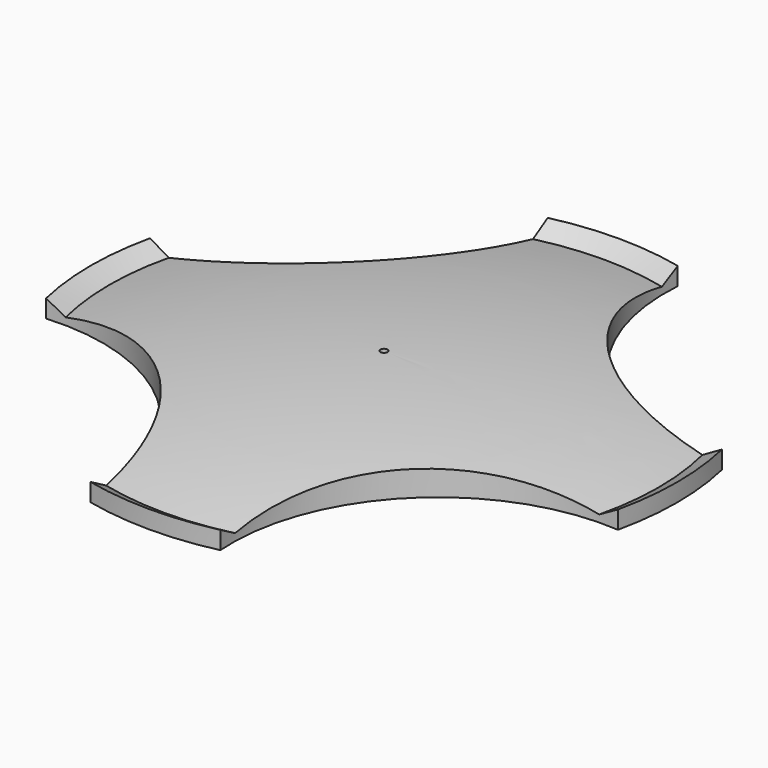
from build123d import *

# Parameters (mm, degrees)
F2_R     = 2.921115
F3_DEPTH = 0.541
F4_R     = 0.05
F5_DEPTH = 25


with BuildPart() as f1:
    # F0 (on Front) → F1 (revolve)
    with BuildSketch(Plane.XZ):
        with BuildLine():
            Line((4.15, 0.252998), (3.885, 0.1))
            ThreePointArc((3.885, 0.1), (1.954918, 0.42965), (0, 0.54))
            Line((0, 0.54), (0, 0))
            Line((0, 0), (4.15, 0))
            Line((4.15, 0), (4.15, 0.252998))
        make_face()
    revolve(axis=Axis((0, 0, 0.27), (0, 0, 1)))

    # F2 (on face) → F3 (cut, through all)
    with BuildSketch(Plane(origin=(0, 0, 0), x_dir=(1, 0, 0), z_dir=(0, 0, -1))):
        with Locations((-3.833307, 3.833307)):
            Circle(F2_R)
        with Locations((3.833307, 3.833307)):
            Circle(F2_R)
        with Locations((-3.833307, -3.833307)):
            Circle(F2_R)
        with Locations((3.833307, -3.833307)):
            Circle(F2_R)
    extrude(amount=-F3_DEPTH, mode=Mode.SUBTRACT)

    # F4 (on face) → F5 (cut)
    with BuildSketch(Plane(origin=(0, 0, 0), x_dir=(1, 0, 0), z_dir=(0, 0, -1))):
        Circle(F4_R)
    extrude(amount=-F5_DEPTH, mode=Mode.SUBTRACT)


solid = f1.part
